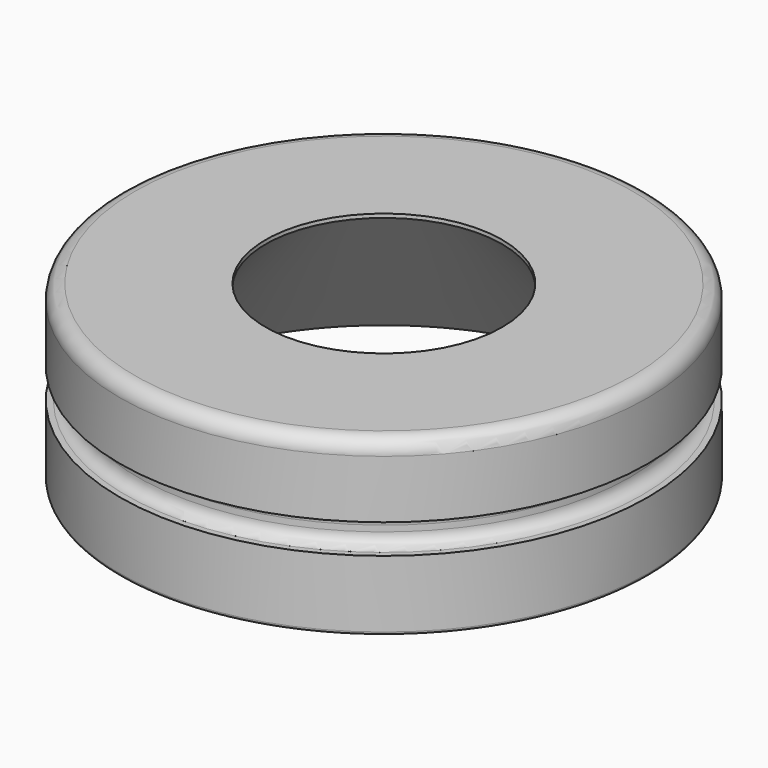
from build123d import *

# Parameters (mm, degrees)
F2_R = 1
F3_R = 0.8
F4_R = 0.2


with BuildPart() as f1:
    # F0 (on Front) → F1 (revolve)
    with BuildSketch(Plane.XZ):
        Polygon((8, 11.738773), (17.85, 0), (17.85, 5.079217), (16.65, 5.079217), (16.65, 7.079217), (17.85, 7.079217), (17.85, 12), (8, 12), align=None)
    revolve(axis=Axis((0, 0, 4.741906), (0, 0, 1)))

    # F2
    f2_edges = [f1.edges().sort_by_distance(p)[0] for p in [
        (-17.85, 0, 12),
    ]]
    fillet(f2_edges, radius=F2_R)

    # F3
    f3_edges = [f1.edges().sort_by_distance(p)[0] for p in [
        (-16.65, 0, 7.079217),
        (-16.65, 0, 5.079217),
    ]]
    fillet(f3_edges, radius=F3_R)

    # F4
    f4_edges = [f1.edges().sort_by_distance(p)[0] for p in [
        (-17.85, 0, 0),
    ]]
    fillet(f4_edges, radius=F4_R)


solid = f1.part
